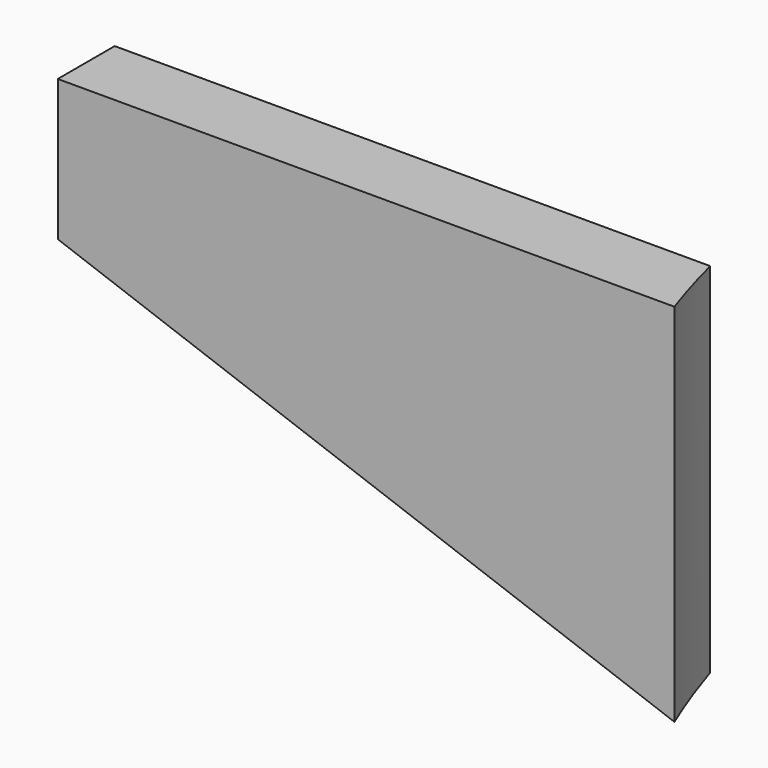
from build123d import *

# Parameters (mm, degrees)
CYLINDER1793_R         = 74
CYLINDER1793_DEPTH     = 60
BOX751_W               = 80
BOX751_H               = 6
BOX751_DEPTH           = 20
BOX751_PLACEMENT_ANGLE = 20
BOX753_W               = 57
BOX753_H               = 6
BOX753_DEPTH           = 32


with BuildPart() as obj1:
    # Cylinder1793 → Cylinder1793 (new body)
    with BuildSketch(Plane.XY.offset(26)):
        Circle(CYLINDER1793_R)
    extrude(amount=CYLINDER1793_DEPTH)


with BuildPart() as krychle751:
    # Box751 → Box751 (new body)
    with BuildSketch(Plane.XY):
        with Locations((40, 3)):
            Rectangle(BOX751_W, BOX751_H)
    extrude(amount=BOX751_DEPTH)


with BuildPart() as krychle751_1:
    # Box751 placement: moved
    add(krychle751.part.moved(Location((-131.7, -24, 54.35))).rotate(Axis((-131.7, -24, 54.35), (0, 1, 0)), BOX751_PLACEMENT_ANGLE))


with BuildPart() as cut554:
    # Box753 → Box753 (new body)
    with BuildSketch(Plane(origin=(-122, -24, 52), x_dir=(1, 0, 0), z_dir=(0, 0, 1))):
        with Locations((28.5, 3)):
            Rectangle(BOX753_W, BOX753_H)
    extrude(amount=BOX753_DEPTH)

    # Cut553: cut Krychle751
    add(krychle751_1.part, mode=Mode.SUBTRACT)

    # Cut554: cut obj1
    add(obj1.part, mode=Mode.SUBTRACT)


solid = cut554.part
